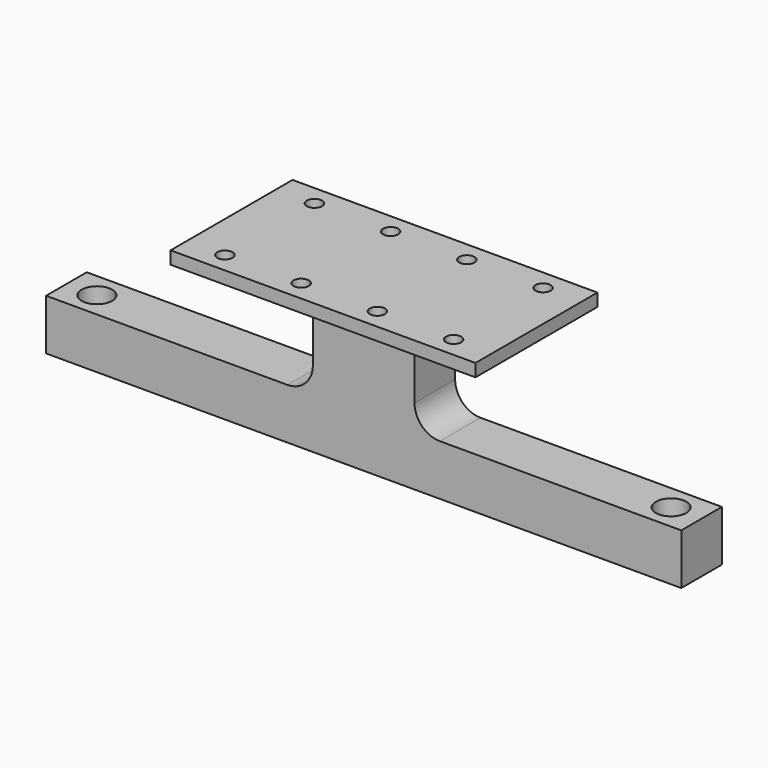
from build123d import *

# Parameters (mm, degrees)
F0_W      = 120
F0_H      = 60
F1_DEPTH  = 5
F2_W      = 40
F2_H      = 20
F3_DEPTH  = 40
F4_W      = 250
F4_H      = 20
F5_DEPTH  = 20
F6_R      = 10
F7_R      = 6
F8_DEPTH  = 65.001
F9_R      = 3
F10_DEPTH = 65.001


with BuildPart() as f1:
    # F0 (on Top) → F1 (new body)
    with BuildSketch(Plane.XY):
        Rectangle(F0_W, F0_H)
    extrude(amount=F1_DEPTH)

    # F2 (on face) → F3 (join)
    with BuildSketch(Plane(origin=(0, 0, 0), x_dir=(1, 0, 0), z_dir=(0, 0, -1))):
        Rectangle(F2_W, F2_H)
    extrude(amount=F3_DEPTH)

    # F4 (on face) → F5 (join)
    with BuildSketch(Plane(origin=(0, 0, -40), x_dir=(1, 0, 0), z_dir=(0, 0, -1))):
        Rectangle(F4_W, F4_H)
    extrude(amount=F5_DEPTH)

    # F6
    f6_edges = [f1.edges().sort_by_distance(p)[0] for p in [
        (-20, 0, -40),
        (20, 0, -40),
        (20, 0, 0),
        (-20, 0, 0),
    ]]
    fillet(f6_edges, radius=F6_R)

    # F7 (on face) → F8 (cut, through all)
    with BuildSketch(Plane(origin=(0, 0, -60), x_dir=(1, 0, 0), z_dir=(0, 0, -1))):
        with Locations((-113, 0)):
            Circle(F7_R)
        with Locations((113, 0)):
            Circle(F7_R)
    extrude(amount=-F8_DEPTH, mode=Mode.SUBTRACT)

    # F9 (on face) → F10 (cut, through all)
    with BuildSketch(Plane.XY.offset(5)):
        with Locations((-15, 22)):
            Circle(F9_R)
        with Locations((15, 22)):
            Circle(F9_R)
        with Locations((-15, -22)):
            Circle(F9_R)
        with Locations((15, -22)):
            Circle(F9_R)
        with Locations((-45, 22)):
            Circle(F9_R)
        with Locations((-45, -22)):
            Circle(F9_R)
        with Locations((45, 22)):
            Circle(F9_R)
        with Locations((45, -22)):
            Circle(F9_R)
    extrude(amount=-F10_DEPTH, mode=Mode.SUBTRACT)


solid = f1.part
